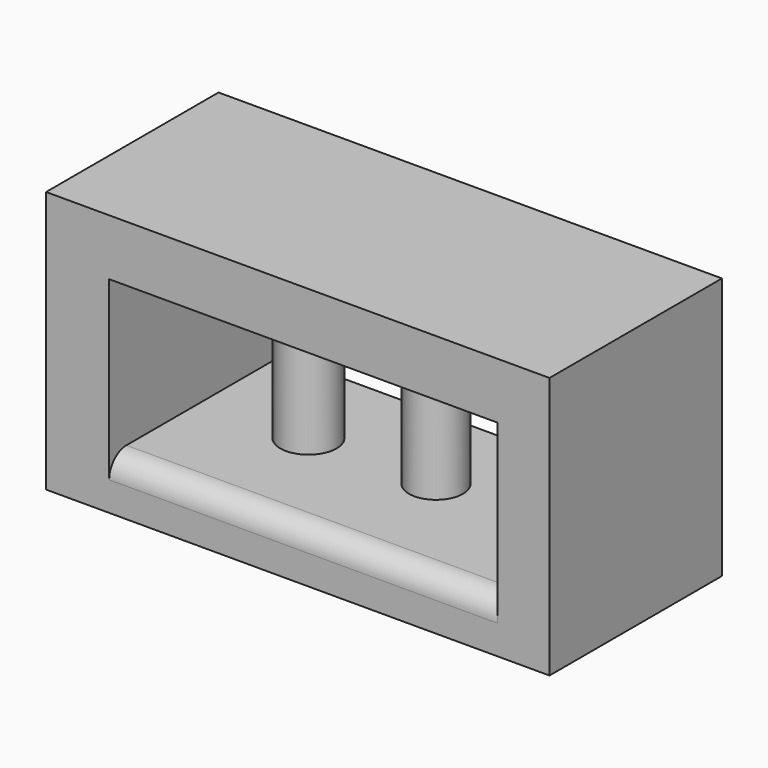
from build123d import *

# Parameters (mm, degrees)
F0_W     = 118.6410989612
F0_H     = 61.7450922728
F0_W_2   = 91.4861774072
F0_H_2   = 36.5298185498
F1_DEPTH = 50.8
F2_R     = 6.3622008296
F2_R_2   = 5.7887908355
F2_R_3   = 6.6303332555
F3_DEPTH = 48.26
F4_R     = 5.08


with BuildPart() as f1:
    # F0 (on Front) → F1 (new body)
    with BuildSketch(Plane.XZ):
        with Locations((29.2561845854, -7.7603831887)):
            Rectangle(F0_W, F0_H)
        with Locations((30.5492696352, -8.4069287404)):
            Rectangle(F0_W_2, F0_H_2, mode=Mode.SUBTRACT)
    extrude(amount=F1_DEPTH)

    # F2 (on face) → F3 (join)
    with BuildSketch(Plane(origin=(0, 0, 9.8579805344), x_dir=(1, 0, 0), z_dir=(0, 0, -1))):
        with Locations((38.9011949301, 22.1416186541)):
            Circle(F2_R)
        with Locations((60.8952976763, 19.697830081)):
            Circle(F2_R_2)
        with Locations((9.1684339568, 22.548917681)):
            Circle(F2_R_3)
    extrude(amount=F3_DEPTH)

    # F4
    f4_edges = [f1.edges().sort_by_distance(p)[0] for p in [
        (30.54927, -50.8, -26.671838),
    ]]
    fillet(f4_edges, radius=F4_R)


solid = f1.part
